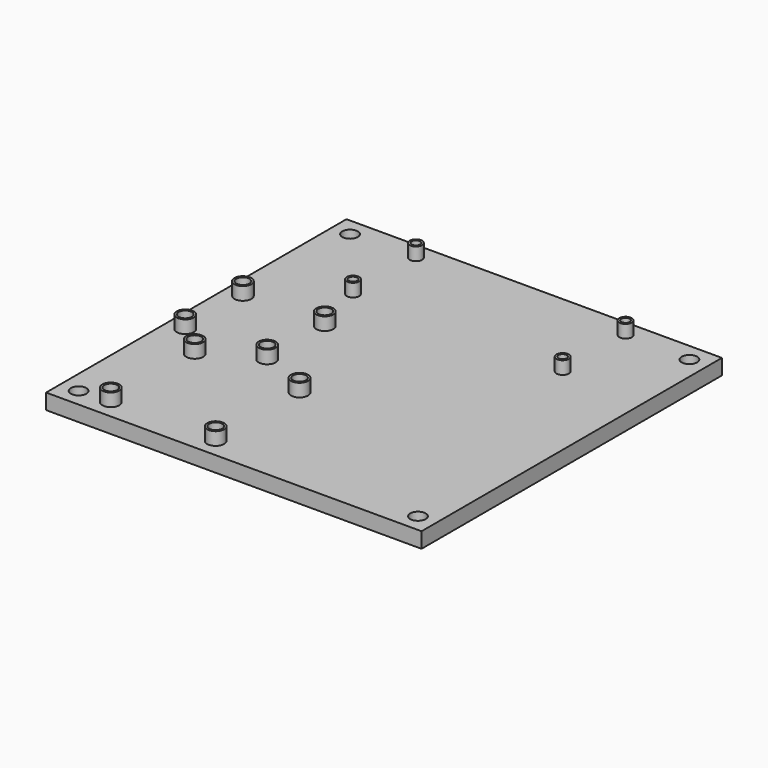
from build123d import *

# Parameters (mm, degrees)
SKETCH_W        = 72.78
SKETCH_H        = 72.78
PAD_DEPTH       = 3
SKETCH002_R     = 0.825
POCKET_DEPTH    = 3.001
SKETCH004_R     = 1.2
SKETCH004_R_2   = 0.825
PAD003_DEPTH    = 2.5
SKETCH005_R     = 1.27
POCKET002_DEPTH = 3.001
SKETCH009_R     = 1.645
SKETCH009_R_2   = 1.27
PAD006_DEPTH    = 2.5
SKETCH010_R     = 1.225
SKETCH010_R_2   = 1.27
POCKET003_DEPTH = 3.001
SKETCH016_R     = 1.645
SKETCH016_R_2   = 1.27
PAD007_DEPTH    = 2.5
SKETCH041_R     = 1.5
POCKET006_DEPTH = 3.001


with BuildPart() as part:
    # Sketch → Pad (new body)
    with BuildSketch(Plane.XY):
        Rectangle(SKETCH_W, SKETCH_H)
    extrude(amount=PAD_DEPTH)

    # Sketch002 (on Face6 of Pad) → Pocket (cut, through all)
    with BuildSketch(Plane.XY.offset(3)):
        with Locations((-20.32, 33.13)):
            Circle(SKETCH002_R)
        with Locations((20.32, 17.89)):
            Circle(SKETCH002_R)
        with Locations((-20.32, 17.89)):
            Circle(SKETCH002_R)
        with Locations((20.32, 33.13)):
            Circle(SKETCH002_R)
    extrude(amount=-POCKET_DEPTH, mode=Mode.SUBTRACT)

    # Sketch004 → Pad003 (join)
    with BuildSketch(Plane.XY.offset(3)):
        with Locations((-20.32, 33.13)):
            Circle(SKETCH004_R)
        with Locations((-20.32, 33.13)):
            Circle(SKETCH004_R_2, mode=Mode.SUBTRACT)
        with Locations((20.32, 17.89)):
            Circle(SKETCH004_R)
        with Locations((20.32, 17.89)):
            Circle(SKETCH004_R_2, mode=Mode.SUBTRACT)
        with Locations((20.32, 33.13)):
            Circle(SKETCH004_R)
        with Locations((20.32, 33.13)):
            Circle(SKETCH004_R_2, mode=Mode.SUBTRACT)
        with Locations((-20.32, 17.89)):
            Circle(SKETCH004_R)
        with Locations((-20.32, 17.89)):
            Circle(SKETCH004_R_2, mode=Mode.SUBTRACT)
    extrude(amount=PAD003_DEPTH)

    # Sketch005 (on Face5 of Pad003) → Pocket002 (cut, through all)
    with BuildSketch(Plane.XY.offset(3)):
        with Locations((-32.9375, 6.985)):
            Circle(SKETCH005_R)
        with Locations((-32.9375, -6.985)):
            Circle(SKETCH005_R)
        with Locations((-17.0625, 6.985)):
            Circle(SKETCH005_R)
        with Locations((-17.0625, -6.985)):
            Circle(SKETCH005_R)
    extrude(amount=-POCKET002_DEPTH, mode=Mode.SUBTRACT)

    # Sketch009 → Pad006 (join)
    with BuildSketch(Plane.XY.offset(3)):
        with Locations((-32.9375, -6.985)):
            Circle(SKETCH009_R)
        with Locations((-32.9375, -6.985)):
            Circle(SKETCH009_R_2, mode=Mode.SUBTRACT)
        with Locations((-17.0625, -6.985)):
            Circle(SKETCH009_R)
        with Locations((-17.0625, -6.985)):
            Circle(SKETCH009_R_2, mode=Mode.SUBTRACT)
        with Locations((-17.0625, 6.985)):
            Circle(SKETCH009_R)
        with Locations((-17.0625, 6.985)):
            Circle(SKETCH009_R_2, mode=Mode.SUBTRACT)
        with Locations((-32.9375, 6.985)):
            Circle(SKETCH009_R)
        with Locations((-32.9375, 6.985)):
            Circle(SKETCH009_R_2, mode=Mode.SUBTRACT)
    extrude(amount=PAD006_DEPTH)

    # Sketch010 (on Face5 of Pad006) → Pocket003 (cut, through all)
    with BuildSketch(Plane.XY.offset(3)):
        with Locations((-26.765, -12.41)):
            Circle(SKETCH010_R)
        with Locations((-6.445, -12.41)):
            Circle(SKETCH010_R_2)
        with Locations((-6.445, -32.73)):
            Circle(SKETCH010_R_2)
        with Locations((-26.765, -32.73)):
            Circle(SKETCH010_R_2)
    extrude(amount=-POCKET003_DEPTH, mode=Mode.SUBTRACT)

    # Sketch016 → Pad007 (join)
    with BuildSketch(Plane.XY.offset(3)):
        with Locations((-6.445, -12.41)):
            Circle(SKETCH016_R)
        with Locations((-6.445, -12.41)):
            Circle(SKETCH016_R_2, mode=Mode.SUBTRACT)
        with Locations((-26.765, -12.41)):
            Circle(SKETCH016_R)
        with Locations((-26.765, -12.41)):
            Circle(SKETCH016_R_2, mode=Mode.SUBTRACT)
        with Locations((-26.765, -32.73)):
            Circle(SKETCH016_R)
        with Locations((-26.765, -32.73)):
            Circle(SKETCH016_R_2, mode=Mode.SUBTRACT)
        with Locations((-6.445, -32.73)):
            Circle(SKETCH016_R)
        with Locations((-6.445, -32.73)):
            Circle(SKETCH016_R_2, mode=Mode.SUBTRACT)
    extrude(amount=PAD007_DEPTH)

    # Sketch041 → Pocket006 (cut, through all)
    with BuildSketch(Plane.XY.offset(3)):
        with Locations((-32.89, 32.89)):
            Circle(SKETCH041_R)
        with Locations((32.89, 32.89)):
            Circle(SKETCH041_R)
        with Locations((-32.89, -32.89)):
            Circle(SKETCH041_R)
        with Locations((32.89, -32.89)):
            Circle(SKETCH041_R)
    extrude(amount=-POCKET006_DEPTH, mode=Mode.SUBTRACT)


with BuildPart() as part_1:
    # Body placement: moved
    add(part.part.moved(Location((0, 0, 18))))


solid = part_1.part
